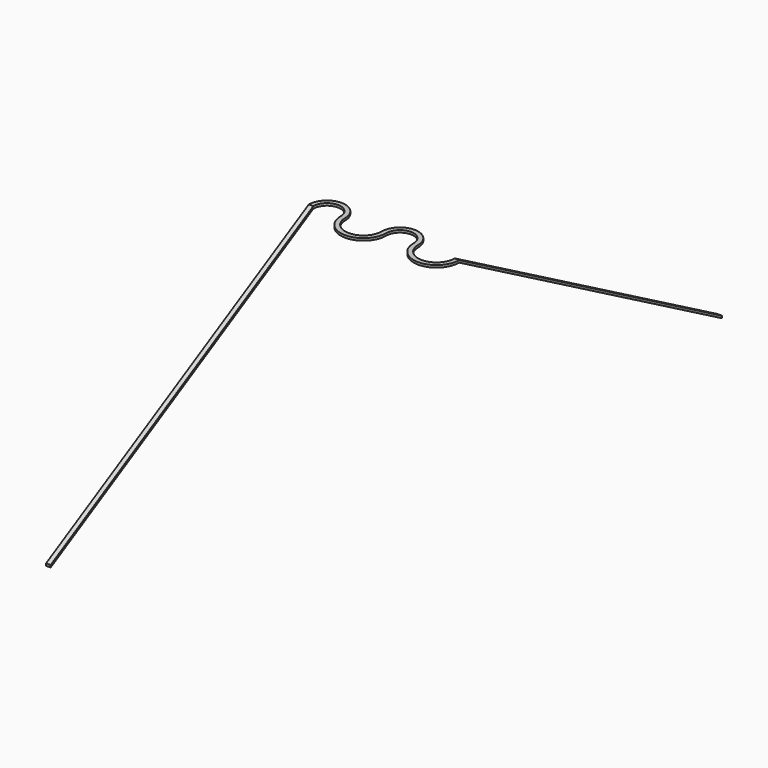
from build123d import *

# Parameters (mm, degrees)
F2_DEPTH = 101.6
F3_DEPTH = 95.25
F5_DEPTH = 107.95
F6_DEPTH = 101.6
F7_DEPTH = 3.175


with BuildPart() as f2:
    # F1 (on Right) → F2 (new body)
    with BuildSketch(Plane.YZ):
        Polygon((-457.2, -254), (0, 0), (0, 3.175), (-457.2, -250.825), align=None)
    extrude(amount=-F2_DEPTH)

    # F1 (on Right) → F3 (cut)
    with BuildSketch(Plane.YZ):
        Polygon((-457.2, -254), (0, 0), (0, 3.175), (-457.2, -250.825), align=None)
    extrude(amount=-F3_DEPTH, mode=Mode.SUBTRACT)



with BuildPart() as f5:
    # F4 (on Right) → F5 (new body)
    with BuildSketch(Plane.YZ):
        Polygon((0, 3.175), (0, 0), (457.2, -254), (457.2, -250.825), align=None)
    extrude(amount=F5_DEPTH)

    # F4 (on Right) → F6 (cut)
    with BuildSketch(Plane.YZ):
        Polygon((0, 3.175), (0, 0), (457.2, -254), (457.2, -250.825), align=None)
    extrude(amount=F6_DEPTH, mode=Mode.SUBTRACT)


with BuildPart() as f2_1:
    add(f2.part)

    add(f5.part)  # F7 merges F5
    # F0 (on Top) → F7 (join)
    with BuildSketch(Plane.XY):
        with BuildLine():
            ThreePointArc((0, 0), (-25.4, -25.4), (-50.8, 0))
            ThreePointArc((-50.8, 0), (-76.2, 25.4), (-101.6, 0))
            Line((-101.6, 0), (-95.25, 0))
            ThreePointArc((-95.25, 0), (-76.2, 19.05), (-57.15, 0))
            ThreePointArc((-57.15, 0), (-25.4, -31.75), (6.35, 0))
            ThreePointArc((6.35, 0), (25.4, 19.05), (44.45, 0))
            ThreePointArc((44.45, 0), (76.2, -31.75), (107.95, 0))
            Line((107.95, 0), (101.6, 0))
            ThreePointArc((101.6, 0), (76.2, -25.4), (50.8, 0))
            ThreePointArc((50.8, 0), (25.4, 25.4), (0, 0))
        make_face()
    extrude(amount=F7_DEPTH)


solid = f2_1.part
